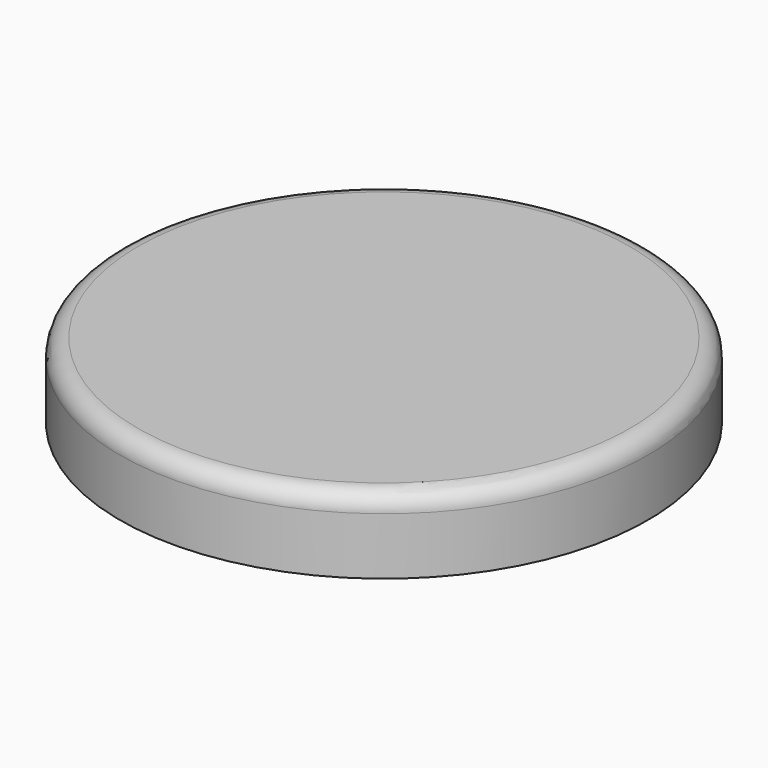
from build123d import *

# Parameters (mm, degrees)
F0_W = 18.15703125
F0_H = 5.159375
F2_R = 1.2264204897


with BuildPart() as f1:
    # F0 (on Front) → F1 (revolve)
    with BuildSketch(Plane.XZ):
        with Locations((-9.078515625, 1.0967985727)):
            Rectangle(F0_W, F0_H)
    revolve(axis=Axis((0, 0, 1.0967985727), (0, 0, -1)))

    # F2
    f2_edges = [f1.edges().sort_by_distance(p)[0] for p in [
        (18.157031, 0, 3.676486),
    ]]
    fillet(f2_edges, radius=F2_R)


solid = f1.part
